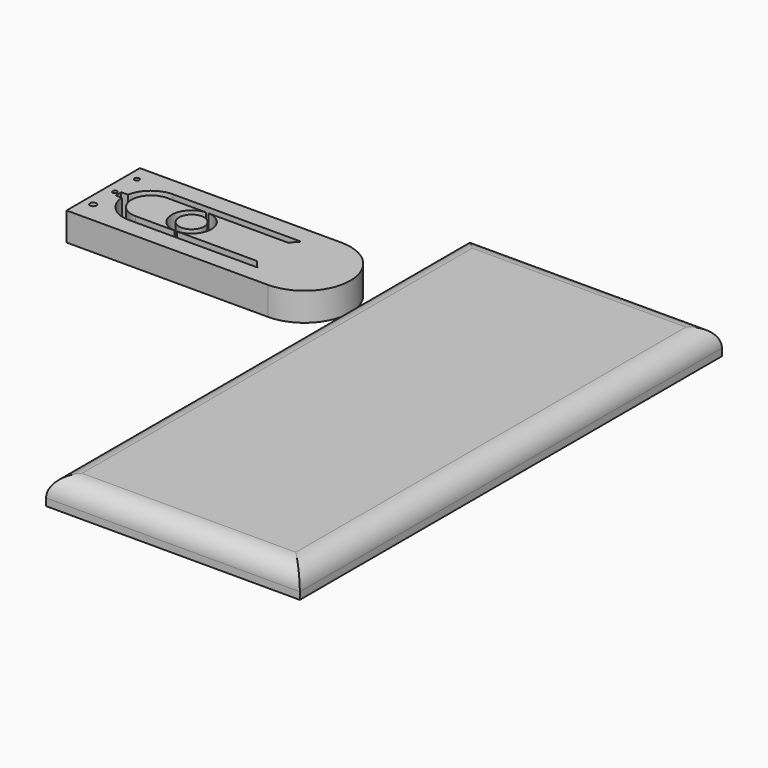
from build123d import *

# Parameters (mm, degrees)
F0_R     = 7.2628338821
F0_R_2   = 0.8083693683
F0_R_3   = 0.5676010392
F0_R_4   = 0.605262816
F1_DEPTH = 7.15712
F0_R_5   = 3.1742869667
F4_DEPTH = 6.91126
F3_W     = 64.3180012703
F3_H     = 133.7568685412
F5_R     = 5.08
F5_2_R   = 5.08


with BuildPart() as f1:
    # F0 (on Top) → F1 (new body)
    with BuildSketch(Plane.XY):
        with BuildLine():
            ThreePointArc((-13.7657718733, 26.1529572308), (-2.1452372894, 37.7734918147), (-13.7657718733, 49.3940263987))
            Line((-13.7657718733, 49.3940263987), (-64.8131147027, 49.3940263987))
            Line((-64.8131147027, 49.3940263987), (-64.8131147027, 26.1529572308))
            Line((-64.8131147027, 26.1529572308), (-13.7657718733, 26.1529572308))
        make_face()
        with BuildLine():
            ThreePointArc((-20.1666126741, 44.7259098291), (-9.9698891989, 46.4278637692), (-4.3155401722, 37.7734918147))
            ThreePointArc((-4.3155401722, 37.7734918147), (-9.8695864973, 29.1638101296), (-20.0033288032, 30.6742127844))
            Line((-20.0033288032, 30.6742127844), (-42.7291683002, 30.6742127844))
            Line((-42.7291683002, 30.6742127844), (-52.6670942683, 30.6742127844))
            ThreePointArc((-52.6670942683, 30.6742127844), (-57.4657426221, 32.568246673), (-59.6771440199, 37.2291579843))
            Line((-59.6771440199, 37.2291579843), (-61.2490288913, 37.2291579843))
            Line((-61.2490288913, 37.2291579843), (-61.2490288913, 30.6505970657))
            ThreePointArc((-61.2490288913, 30.6505970657), (-62.3184870929, 29.5811388642), (-63.3879452944, 30.6505970657))
            Line((-63.3879452944, 30.6505970657), (-63.3879452944, 46.0331365466))
            ThreePointArc((-63.3879452944, 46.0331365466), (-62.3184870929, 47.1025947481), (-61.2490288913, 46.0331365466))
            Line((-61.2490288913, 46.0331365466), (-61.2490288913, 39.0296056867))
            Line((-61.2490288913, 39.0296056867), (-59.5659970217, 39.0296056867))
            ThreePointArc((-59.5659970217, 39.0296056867), (-57.1404246855, 43.1177972212), (-52.6670942683, 44.7259098291))
            Line((-52.6670942683, 44.7259098291), (-42.7291683002, 44.7259098291))
            Line((-42.7291683002, 44.7259098291), (-20.1666126741, 44.7259098291))
        make_face(mode=Mode.SUBTRACT)
        with BuildLine():
            ThreePointArc((-20.0033288032, 30.6742127844), (-9.8695864973, 29.1638101296), (-4.3155401722, 37.7734918147))
            ThreePointArc((-4.3155401722, 37.7734918147), (-9.9698891989, 46.4278637692), (-20.1666126741, 44.7259098291))
            ThreePointArc((-20.1666126741, 44.7259098291), (-21.0469322653, 43.7977413572), (-21.7938318702, 42.759184534))
            ThreePointArc((-21.7938318702, 42.759184534), (-23.2160035744, 37.7734918147), (-21.7938318702, 32.7877990955))
            ThreePointArc((-21.7938318702, 32.7877990955), (-20.976442324, 31.6650459523), (-20.0033288032, 30.6742127844))
        make_face()
        with Locations((-13.7657718733, 37.7734918147)):
            Circle(F0_R, mode=Mode.SUBTRACT)
        with Locations((-13.7657718733, 37.7734918147)):
            Circle(F0_R)
        with BuildLine():
            ThreePointArc((-21.7938318702, 32.7877990955), (-23.2160035744, 37.7734918147), (-21.7938318702, 42.759184534))
            Line((-21.7938318702, 42.759184534), (-42.0750089841, 42.759184534))
            ThreePointArc((-42.0750089841, 42.759184534), (-38.7552861337, 41.1888899552), (-37.4056786316, 37.7734918147))
            ThreePointArc((-37.4056786316, 37.7734918147), (-38.7552861337, 34.3580936743), (-42.0750089841, 32.7877990955))
            Line((-42.0750089841, 32.7877990955), (-21.7938318702, 32.7877990955))
        make_face()
        with BuildLine():
            Line((-61.2490288913, 37.2291579843), (-61.2490288913, 39.0296056867))
            Line((-61.2490288913, 39.0296056867), (-61.2490288913, 46.0331365466))
            ThreePointArc((-61.2490288913, 46.0331365466), (-62.3184870929, 47.1025947481), (-63.3879452944, 46.0331365466))
            Line((-63.3879452944, 46.0331365466), (-63.3879452944, 30.6505970657))
            ThreePointArc((-63.3879452944, 30.6505970657), (-62.3184870929, 29.5811388642), (-61.2490288913, 30.6505970657))
            Line((-61.2490288913, 30.6505970657), (-61.2490288913, 37.2291579843))
        make_face()
        with Locations((-62.3184870929, 31.4825821528)):
            Circle(F0_R_2, mode=Mode.SUBTRACT)
        with Locations((-62.3184870929, 38.3418668061)):
            Circle(F0_R_3, mode=Mode.SUBTRACT)
        with Locations((-62.3184870929, 45.3311726451)):
            Circle(F0_R_4, mode=Mode.SUBTRACT)
    extrude(amount=F1_DEPTH)


with BuildPart() as f1b:
    # F0 (on Top) → F1, piece 2 (new body)
    with BuildSketch(Plane.XY):
        with Locations((-42.4020886421, 37.7734918147)):
            Circle(F0_R_5)
    extrude(amount=F1_DEPTH)


with BuildPart() as f1c:
    # F0 (on Top) → F1, piece 3 (new body)
    with BuildSketch(Plane.XY):
        with BuildLine():
            ThreePointArc((-42.7291683002, 32.7877990955), (-47.3984986526, 37.7734918147), (-42.7291683002, 42.759184534))
            Line((-42.7291683002, 42.759184534), (-52.6670942683, 42.759184534))
            ThreePointArc((-52.6670942683, 42.759184534), (-57.6527869875, 37.7734918147), (-52.6670942683, 32.7877990955))
            Line((-52.6670942683, 32.7877990955), (-42.7291683002, 32.7877990955))
        make_face()
    extrude(amount=F1_DEPTH)


with BuildPart() as f4:
    # F2 (on Top) → F4 (new body)
    with BuildSketch(Plane.XY):
        Polygon((33.9215472341, 65.9483455345), (5.0802426413, 65.9483455345), (5.0802426413, -61.1430704594), (64.2773881555, -61.1430704594), (64.2773881555, 65.9483455345), align=None)
    extrude(amount=F4_DEPTH)

    # F5#2
    f5_2_edges = [f4.edges().sort_by_distance(p)[0] for p in [
        (34.678815, 65.948346, 6.91126),
        (64.277388, 2.402638, 6.91126),
        (5.080243, 2.402638, 6.91126),
        (34.678815, -61.14307, 6.91126),
    ]]
    fillet(f5_2_edges, radius=F5_2_R)


with BuildPart() as f4b:
    # F3 (on Top) → F4, piece 2 (new body)
    with BuildSketch(Plane.XY):
        with Locations((34.7812324762, 2.2531785071)):
            Rectangle(F3_W, F3_H)
    extrude(amount=F4_DEPTH)

    # F5
    f5_edges = [f4b.edges().sort_by_distance(p)[0] for p in [
        (34.781232, 69.131613, 6.91126),
        (66.940233, 2.253179, 6.91126),
        (2.622232, 2.253179, 6.91126),
        (34.781232, -64.625256, 6.91126),
    ]]
    fillet(f5_edges, radius=F5_R)


solid = Compound([f1.part, f1b.part, f1c.part, f4.part, f4b.part])
